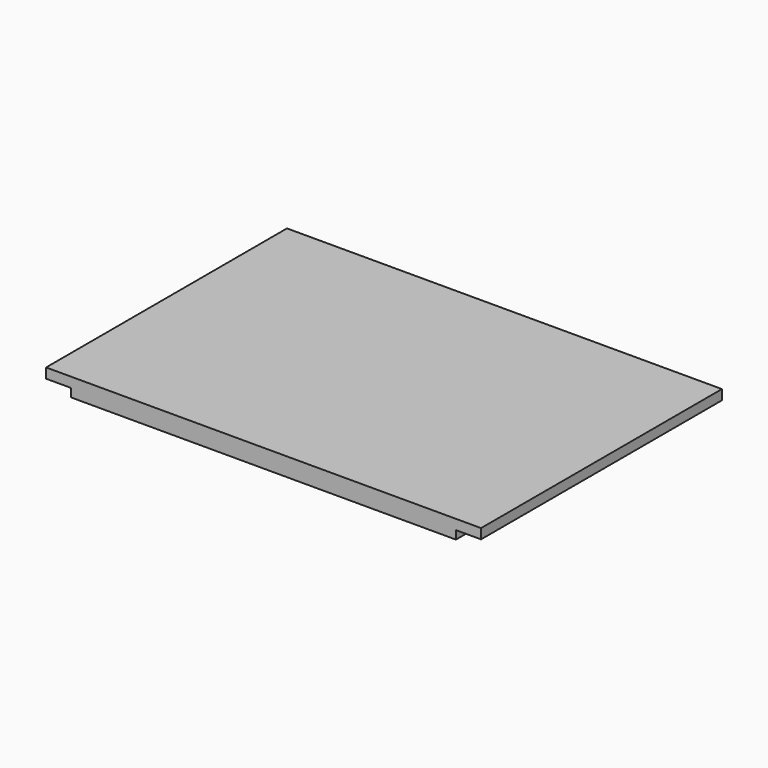
from build123d import *

# Parameters (mm, degrees)
F0_W     = 25.4
F0_H     = 12.7
F1_DEPTH = 330.2
F2_W     = 38.1
F2_H     = 12.7
F3_DEPTH = 457.201
F4_W     = 50.8
F4_H     = 12.7
F5_DEPTH = 584.2


with BuildPart() as f1:
    # F0 (on Right) → F1 (new body, symmetric)
    with BuildSketch(Plane.YZ):
        with Locations((-215.9, -6.35)):
            Rectangle(F0_W, F0_H)
        Polygon((-228.6, 15.08125), (-228.6, 0), (-203.2, 0), (203.2, 0), (228.6, 0), (228.6, 15.08125), align=None)
        with Locations((215.9, -6.35)):
            Rectangle(F0_W, F0_H)
    extrude(amount=F1_DEPTH, both=True)

    # F2 (on face) → F3 (cut, through all)
    with BuildSketch(Plane.XZ.offset(228.6)):
        with Locations((-311.15, -6.35)):
            Rectangle(F2_W, F2_H)
        with Locations((311.15, -6.35)):
            Rectangle(F2_W, F2_H)
    extrude(amount=-F3_DEPTH, mode=Mode.SUBTRACT)

    # F4 (on face) → F5 (join, through all)
    with BuildSketch(Plane(origin=(-292.1, 0, 0), x_dir=(0, -1, 0), z_dir=(-1, 0, 0))):
        with Locations((0, -6.35)):
            Rectangle(F4_W, F4_H)
    extrude(amount=-F5_DEPTH)


solid = f1.part
